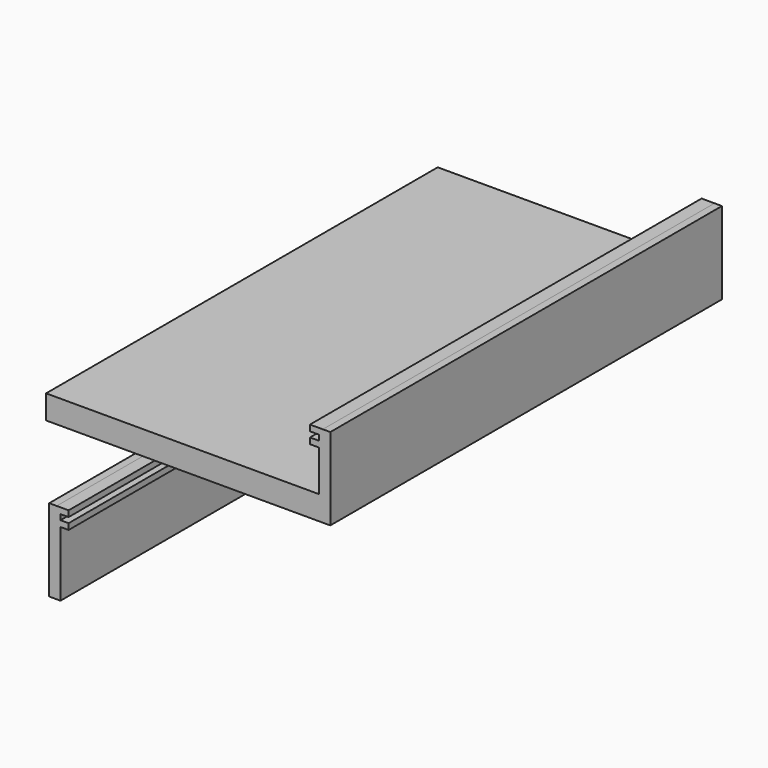
from build123d import *

# Parameters (mm, degrees)
F0_W     = 3.175
F0_H     = 34.979823
F1_DEPTH = 208.28


with BuildPart() as f1:
    # F0 (on Front) → F1 (new body)
    with BuildSketch(Plane.XZ):
        Polygon((-117.752284, -4.362014), (-117.752284, -14.522014), (0, -14.522014), (0, 20.457809), (-5.472294, 20.457809), (-5.472294, 17.917809), (-1.627716, 17.917809), (-1.627716, 15.631809), (-5.472294, 15.631809), (-5.472294, 13.091809), (-1.627716, 13.091809), (-1.627716, -4.362014), align=None)
        with Locations((1.5875, 2.967897)):
            Rectangle(F0_W, F0_H)
        Polygon((-108.163243, -45.067611), (-113.243243, -45.067611), (-113.243243, -80.047434), (-111.615527, -80.047434), (-111.615527, -69.887434), (-111.615527, -52.433611), (-108.163243, -52.433611), (-108.163243, -49.893611), (-111.615527, -49.893611), (-111.615527, -47.607611), (-108.163243, -47.607611), align=None)
        with Locations((-114.830743, -62.557522)):
            Rectangle(F0_W, F0_H)
    extrude(amount=F1_DEPTH)


solid = f1.part
